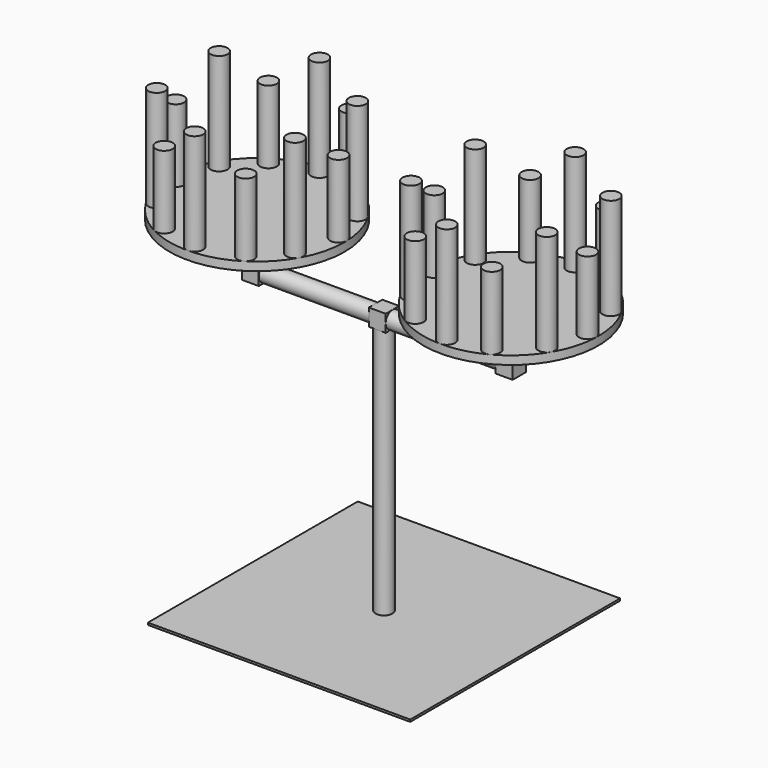
from build123d import *

# Parameters (mm, degrees)
F0_R      = 25.4
F1_DEPTH  = 751.84
F2_W      = 25.4
F2_H      = 50.8
F3_DEPTH  = 50.8
F4_R      = 25.4
F5_DEPTH  = 330.2
F6_W      = 50.8
F6_H      = 50.8
F7_DEPTH  = 50.8
F8_R      = 25.4
F9_DEPTH  = 106.68
F10_R     = 262.89
F11_DEPTH = 25.4
F12_R     = 25.4
F13_DEPTH = 304.8
F14_COUNT = 6
F15_R     = 25.4
F16_DEPTH = 218.44
F17_COUNT = 6
F19_W     = 787.4
F19_H     = 787.4
F20_DEPTH = 6.35


with BuildPart() as f1:
    # F0 (on Top) → F1 (new body)
    with BuildSketch(Plane.XY):
        Circle(F0_R)
    extrude(amount=F1_DEPTH)

    # F2 (on face) → F3 (join)
    with BuildSketch(Plane.XY.offset(751.84)):
        with Locations((-12.7, 0)):
            Rectangle(F2_W, F2_H)
    extrude(amount=F3_DEPTH)

    # F4 (on face) → F5 (join)
    with BuildSketch(Plane(origin=(-25.4, 0, 0), x_dir=(0, -1, 0), z_dir=(-1, 0, 0))):
        with Locations((0, 777.24)):
            Circle(F4_R)
    extrude(amount=F5_DEPTH)

    # F6 (on face) → F7 (join)
    with BuildSketch(Plane(origin=(-355.6, 0, 0), x_dir=(0, -1, 0), z_dir=(-1, 0, 0))):
        with Locations((0, 777.24)):
            Rectangle(F6_W, F6_H)
    extrude(amount=F7_DEPTH)

    # F8 (on face) → F9 (join)
    with BuildSketch(Plane.XY.offset(802.64)):
        with Locations((-381, 0)):
            Circle(F8_R)
    extrude(amount=F9_DEPTH)

    # F10 (on face) → F11 (join)
    with BuildSketch(Plane.XY.offset(909.32)):
        with Locations((-381, 0)):
            Circle(F10_R)
    extrude(amount=F11_DEPTH)



with BuildPart() as f13:
    # F12 (on face) → F13 (new body)
    with BuildSketch(Plane.XY.offset(934.72)):
        with Locations((-383.6863139253, 237.370216266)):
            Circle(F12_R)
    extrude(amount=F13_DEPTH)


with BuildPart() as f14_1:
    # F14: instance of F13
    add(f13.part.rotate(Axis((-381, 0, 934.72), (0, 0, 1)), 1 * 360 / F14_COUNT))


with BuildPart() as f14_2:
    # F14: instance of F13
    add(f13.part.rotate(Axis((-381, 0, 934.72), (0, 0, 1)), 2 * 360 / F14_COUNT))


with BuildPart() as f14_3:
    # F14: instance of F13
    add(f13.part.rotate(Axis((-381, 0, 934.72), (0, 0, 1)), 3 * 360 / F14_COUNT))


with BuildPart() as f14_4:
    # F14: instance of F13
    add(f13.part.rotate(Axis((-381, 0, 934.72), (0, 0, 1)), 4 * 360 / F14_COUNT))


with BuildPart() as f14_5:
    # F14: instance of F13
    add(f13.part.rotate(Axis((-381, 0, 934.72), (0, 0, 1)), 5 * 360 / F14_COUNT))


with BuildPart() as f16:
    # F15 (on face) → F16 (new body)
    with BuildSketch(Plane.XY.offset(934.72)):
        with Locations((-507.5818646582, 200.7876369391)):
            Circle(F15_R)
    extrude(amount=F16_DEPTH)


with BuildPart() as f17_1:
    # F17: instance of F16
    add(f16.part.rotate(Axis((-381, 0, 934.72), (0, 0, 1)), 1 * 360 / F17_COUNT))


with BuildPart() as f17_2:
    # F17: instance of F16
    add(f16.part.rotate(Axis((-381, 0, 934.72), (0, 0, 1)), 2 * 360 / F17_COUNT))


with BuildPart() as f17_3:
    # F17: instance of F16
    add(f16.part.rotate(Axis((-381, 0, 934.72), (0, 0, 1)), 3 * 360 / F17_COUNT))


with BuildPart() as f17_4:
    # F17: instance of F16
    add(f16.part.rotate(Axis((-381, 0, 934.72), (0, 0, 1)), 4 * 360 / F17_COUNT))


with BuildPart() as f17_5:
    # F17: instance of F16
    add(f16.part.rotate(Axis((-381, 0, 934.72), (0, 0, 1)), 5 * 360 / F17_COUNT))


with BuildPart() as f1_1:
    add(f1.part)
    # F18: F14_3, F17_2, F17_1, F17_4, F16, F14_5, F14_2, F1, F13, F17_5, F14_1, F17_3, F14_4 across face
    add(f14_3.part.mirror(Plane(origin=(0, 0, 777.24), x_dir=(0, 1, 0), z_dir=(1, 0, 0))))
    add(f17_2.part.mirror(Plane(origin=(0, 0, 777.24), x_dir=(0, 1, 0), z_dir=(1, 0, 0))))
    add(f17_1.part.mirror(Plane(origin=(0, 0, 777.24), x_dir=(0, 1, 0), z_dir=(1, 0, 0))))
    add(f17_4.part.mirror(Plane(origin=(0, 0, 777.24), x_dir=(0, 1, 0), z_dir=(1, 0, 0))))
    add(f16.part.mirror(Plane(origin=(0, 0, 777.24), x_dir=(0, 1, 0), z_dir=(1, 0, 0))))
    add(f14_5.part.mirror(Plane(origin=(0, 0, 777.24), x_dir=(0, 1, 0), z_dir=(1, 0, 0))))
    add(f14_2.part.mirror(Plane(origin=(0, 0, 777.24), x_dir=(0, 1, 0), z_dir=(1, 0, 0))))
    add(f1.part.mirror(Plane(origin=(0, 0, 777.24), x_dir=(0, 1, 0), z_dir=(1, 0, 0))))
    add(f13.part.mirror(Plane(origin=(0, 0, 777.24), x_dir=(0, 1, 0), z_dir=(1, 0, 0))))
    add(f17_5.part.mirror(Plane(origin=(0, 0, 777.24), x_dir=(0, 1, 0), z_dir=(1, 0, 0))))
    add(f14_1.part.mirror(Plane(origin=(0, 0, 777.24), x_dir=(0, 1, 0), z_dir=(1, 0, 0))))
    add(f17_3.part.mirror(Plane(origin=(0, 0, 777.24), x_dir=(0, 1, 0), z_dir=(1, 0, 0))))
    add(f14_4.part.mirror(Plane(origin=(0, 0, 777.24), x_dir=(0, 1, 0), z_dir=(1, 0, 0))))

    # F19 (on face) → F20 (join)
    with BuildSketch(Plane(origin=(0, 0, 0), x_dir=(1, 0, 0), z_dir=(0, 0, -1))):
        Rectangle(F19_W, F19_H)
    extrude(amount=F20_DEPTH)


solid = Compound([f13.part, f14_1.part, f14_2.part, f14_3.part, f14_4.part, f14_5.part, f16.part, f17_1.part, f17_2.part, f17_3.part, f17_4.part, f17_5.part, f1_1.part])
